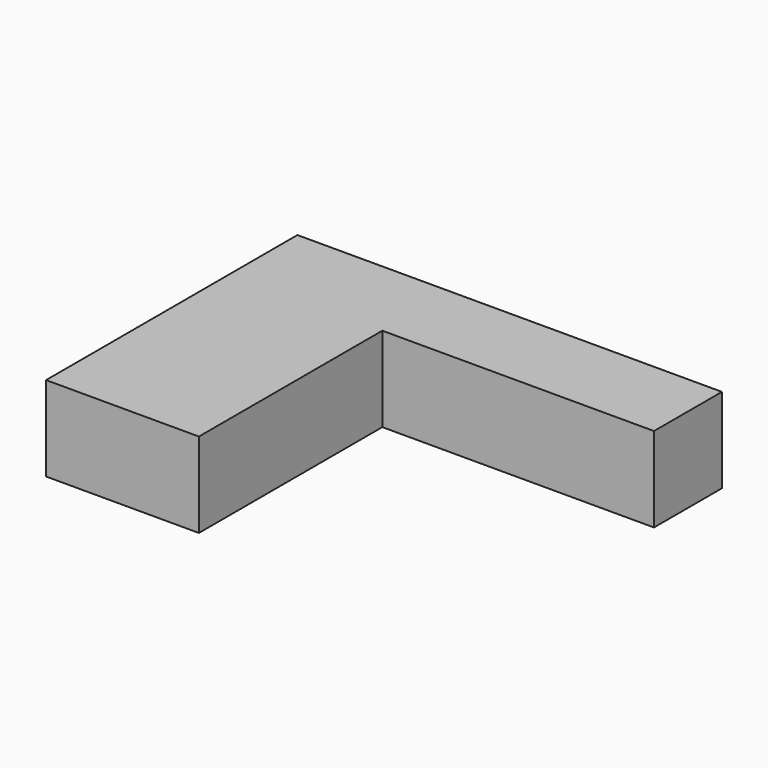
from build123d import *

# Parameters (mm, degrees)
BOX001_W     = 32
BOX001_H     = 10
BOX001_DEPTH = 10
BOX_W        = 18
BOX_H        = 37
BOX_DEPTH    = 10


with BuildPart() as cubo001:
    # Box001 → Box001 (new body)
    with BuildSketch(Plane(origin=(18, 27, 0), x_dir=(1, 0, 0), z_dir=(0, 0, 1))):
        with Locations((16, 5)):
            Rectangle(BOX001_W, BOX001_H)
    extrude(amount=BOX001_DEPTH)


with BuildPart() as base:
    # Box → Box (new body)
    with BuildSketch(Plane.XY):
        with Locations((9, 18.5)):
            Rectangle(BOX_W, BOX_H)
    extrude(amount=BOX_DEPTH)

    # Fusion: union Cubo001
    add(cubo001.part)


with BuildPart() as base_1:
    # Fusion placement: moved
    add(base.part.moved(Location((0, 0, 2))))


solid = base_1.part
